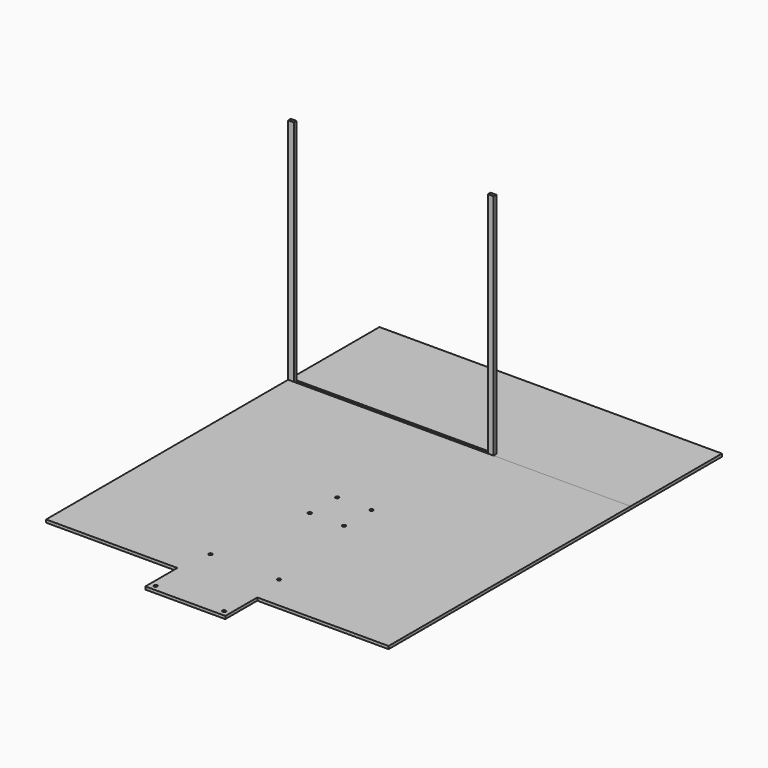
from build123d import *

# Parameters (mm, degrees)
F0_W      = 700
F0_H      = 700
F1_DEPTH  = 25
F2_R      = 15
F3_DEPTH  = 25
F4_R      = 15
F5_DEPTH  = 50
F6_W      = 1150
F6_H      = 350
F7_DEPTH  = 25
F8_W      = 3000
F8_H      = 1000
F9_DEPTH  = 25
F10_W     = 50
F10_H     = 30
F10_W_2   = 46
F10_H_2   = 26
F11_DEPTH = 2000
F12_W     = 1700
F12_H     = 30
F13_DEPTH = 10


with BuildPart() as f1:
    # F0 (on Top) → F1 (new body)
    with BuildSketch(Plane.XY):
        with Locations((0, -56.833140552)):
            Rectangle(F0_W, F0_H)
        with BuildLine():
            ThreePointArc((-300, 228.166859448), (-310.6066017178, 253.7734611658), (-285, 243.166859448))
            Line((-285, 243.166859448), (285, 243.166859448))
            ThreePointArc((285, 243.166859448), (300, 258.166859448), (315, 243.166859448))
            ThreePointArc((315, 243.166859448), (310.6066017178, 232.5602577302), (300, 228.166859448))
            Line((300, 228.166859448), (300, -341.833140552))
            ThreePointArc((300, -341.833140552), (310.6066017178, -346.2265388342), (315, -356.833140552))
            ThreePointArc((315, -356.833140552), (300, -371.833140552), (285, -356.833140552))
            Line((285, -356.833140552), (-285, -356.833140552))
            ThreePointArc((-285, -356.833140552), (-310.6066017178, -367.4397422698), (-300, -341.833140552))
            Line((-300, -341.833140552), (-300, 228.166859448))
        make_face(mode=Mode.SUBTRACT)
        Polygon((-1500, -406.833140552), (-350, -406.833140552), (-350, 293.166859448), (350, 293.166859448), (350, -406.833140552), (1500, -406.833140552), (1500, 2593.166859448), (0, 2593.166859448), (-1500, 2593.166859448), align=None)
        with BuildLine():
            Line((285, 243.166859448), (-285, 243.166859448))
            ThreePointArc((-285, 243.166859448), (-289.3933982822, 232.5602577302), (-300, 228.166859448))
            Line((-300, 228.166859448), (-300, -341.833140552))
            ThreePointArc((-300, -341.833140552), (-289.3933982822, -346.2265388342), (-285, -356.833140552))
            Line((-285, -356.833140552), (285, -356.833140552))
            ThreePointArc((285, -356.833140552), (289.3933982822, -346.2265388342), (300, -341.833140552))
            Line((300, -341.833140552), (300, 228.166859448))
            ThreePointArc((300, 228.166859448), (289.3933982822, 232.5602577302), (285, 243.166859448))
        make_face()
    extrude(amount=F1_DEPTH)

    # F2 (on face) → F3 (cut)
    with BuildSketch(Plane.XY.offset(25)):
        with Locations((-300, 243.166859448)):
            Circle(F2_R)
        with Locations((300, 243.166859448)):
            Circle(F2_R)
        with Locations((-300, -356.833140552)):
            Circle(F2_R)
        with Locations((300, -356.833140552)):
            Circle(F2_R)
    extrude(amount=-F3_DEPTH, mode=Mode.SUBTRACT)

    # F4 (on face) → F5 (cut)
    with BuildSketch(Plane.XY.offset(25)):
        with Locations((-150, 1443.166859448)):
            Circle(F4_R)
        with Locations((150, 1443.166859448)):
            Circle(F4_R)
        with Locations((150, 1143.166859448)):
            Circle(F4_R)
        with Locations((-150, 1143.166859448)):
            Circle(F4_R)
    extrude(amount=-F5_DEPTH, mode=Mode.SUBTRACT)

    # F6 (on face) → F7 (cut)
    with BuildSketch(Plane.XY.offset(25)):
        with Locations((-925, -231.833140552)):
            Rectangle(F6_W, F6_H)
        with Locations((925, -231.833140552)):
            Rectangle(F6_W, F6_H)
    extrude(amount=-F7_DEPTH, mode=Mode.SUBTRACT)


with BuildPart() as f9:
    # F8 (on face) → F9 (new body)
    with BuildSketch(Plane.XY.offset(25)):
        with Locations((0, 3093.166859448)):
            Rectangle(F8_W, F8_H)
    extrude(amount=-F9_DEPTH)

    # F12 (on face) → F13 (cut)
    with BuildSketch(Plane.XY.offset(25)):
        with Locations((-600, 2608.166859448)):
            Rectangle(F12_W, F12_H)
    extrude(amount=-F13_DEPTH, mode=Mode.SUBTRACT)


with BuildPart() as f11:
    # F10 (on face) → F11 (new body)
    with BuildSketch(Plane.XY.offset(25)):
        with Locations((-1475, 2608.166859448)):
            Rectangle(F10_W, F10_H)
        with Locations((-1475, 2608.166859448)):
            Rectangle(F10_W_2, F10_H_2, mode=Mode.SUBTRACT)
    extrude(amount=F11_DEPTH)


with BuildPart() as f11b:
    # F10 (on face) → F11, piece 2 (new body)
    with BuildSketch(Plane.XY.offset(25)):
        with Locations((275, 2608.166859448)):
            Rectangle(F10_W, F10_H)
        with Locations((275, 2608.166859448)):
            Rectangle(F10_W_2, F10_H_2, mode=Mode.SUBTRACT)
    extrude(amount=F11_DEPTH)


solid = Compound([f1.part, f9.part, f11.part, f11b.part])
